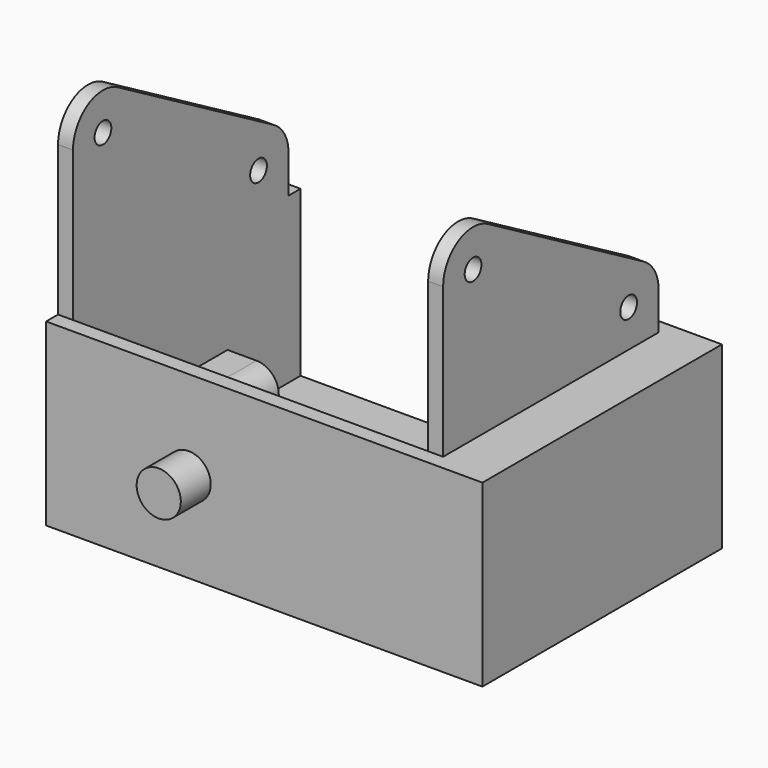
from build123d import *

# Parameters (mm, degrees)
SKETCH_W        = 54.3
SKETCH_H        = 38
PAD_DEPTH       = 2
SKETCH001_W     = 54.3
SKETCH001_H     = 2
PAD001_DEPTH    = 22
SKETCH002_R     = 2.95
PAD002_DEPTH    = 5
SKETCH003_W     = 40
SKETCH003_H     = 22
PAD003_DEPTH    = 2
SKETCH004_W     = 40
SKETCH004_H     = 22
PAD004_DEPTH    = 2
SKETCH005_W     = 6.85
SKETCH005_H     = 15
PAD005_DEPTH    = 8
SKETCH006_R     = 1.4
POCKET_DEPTH    = 15
FILLET_R        = 3
FILLET001_R     = 2
SKETCH007_W     = 6.85
SKETCH007_H     = 25.8
PAD006_DEPTH    = 20
SKETCH008_R     = 1.4
POCKET001_DEPTH = 15
PAD007_DEPTH    = 2
SKETCH010_R     = 1.4
PAD008_DEPTH    = 2
SKETCH011_R     = 1.4
PAD009_DEPTH    = 2


with BuildPart() as body:
    # Sketch → Pad (new body)
    with BuildSketch(Plane.XY):
        with Locations((27.15, 21)):
            Rectangle(SKETCH_W, SKETCH_H)
    extrude(amount=PAD_DEPTH)

    # Sketch001 → Pad001 (join)
    with BuildSketch(Plane.XY):
        with Locations((27.15, 1)):
            Rectangle(SKETCH001_W, SKETCH001_H)
    extrude(amount=PAD001_DEPTH)

    # Sketch002 → Pad002 (join)
    with BuildSketch(Plane.XZ):
        with Locations((37.25, 12)):
            Circle(SKETCH002_R)
    extrude(amount=PAD002_DEPTH)

    # Sketch003 (on Face2 of Pad002) → Pad003 (join)
    with BuildSketch(Plane(origin=(0, 0, 0), x_dir=(0, -1, 0), z_dir=(-1, 0, 0))):
        with Locations((-20, 11)):
            Rectangle(SKETCH003_W, SKETCH003_H)
    extrude(amount=PAD003_DEPTH)

    # Sketch004 (on Face3 of Pad003) → Pad004 (join)
    with BuildSketch(Plane.YZ.offset(54.3)):
        with Locations((20, 11)):
            Rectangle(SKETCH004_W, SKETCH004_H)
    extrude(amount=PAD004_DEPTH)

    # Sketch005 (on Face5 of Pad004) → Pad005 (join)
    with BuildSketch(Plane.XY.offset(2)):
        with Locations((50.875, 20.3)):
            Rectangle(SKETCH005_W, SKETCH005_H)
    extrude(amount=PAD005_DEPTH)

    # Sketch006 (on Face15 of Pad005) → Pocket (cut)
    with BuildSketch(Plane(origin=(0, 27.8, 0), x_dir=(-1, 0, 0), z_dir=(0, 1, 0))):
        with Locations((-51.3, 7)):
            Circle(SKETCH006_R)
    extrude(amount=-POCKET_DEPTH, mode=Mode.SUBTRACT)

    # Fillet
    fillet_edges = [body.edges().sort_by_distance(p)[0] for p in [
        (47.45, 20.3, 10),
    ]]
    fillet(fillet_edges, radius=FILLET_R)

    # Fillet001
    fillet001_edges = [body.edges().sort_by_distance(p)[0] for p in [
        (52.375, 12.8, 10),
    ]]
    fillet(fillet001_edges, radius=FILLET001_R)

    # Sketch007 (on Face5 of Fillet001) → Pad006 (join)
    with BuildSketch(Plane.XY.offset(2)):
        with Locations((3.425, 14.9)):
            Rectangle(SKETCH007_W, SKETCH007_H)
    extrude(amount=PAD006_DEPTH)

    # Sketch008 (on Face14 of Pad006) → Pocket001 (cut)
    with BuildSketch(Plane(origin=(0, 27.8, 0), x_dir=(-1, 0, 0), z_dir=(0, 1, 0))):
        with Locations((-3, 7)):
            Circle(SKETCH008_R)
        with Locations((-3, 17)):
            Circle(SKETCH008_R)
    extrude(amount=-POCKET001_DEPTH, mode=Mode.SUBTRACT)

    # Sketch009 (on Face21 of Pocket001) → Pad007 (join)
    with BuildSketch(Plane.XY.offset(22)):
        Polygon((54.3, 2), (54.3, 40), (56.3, 40), (56.3, 0), (-2, 0), (-2, 40), (6.85, 40), (6.85, 2), align=None)
    extrude(amount=PAD007_DEPTH)

    # Sketch010 (on Face22 of Pad007) → Pad008 (join)
    with BuildSketch(Plane.YZ.offset(6.85)):
        with BuildLine():
            Line((2, 24), (38, 24))
            Line((38, 29), (38, 24))
            ThreePointArc((38, 29), (37.326745, 31.511013), (35.487593, 33.348396))
            Line((35.487593, 33.348396), (9.497223, 48.331729))
            ThreePointArc((9.497223, 48.331729), (4.498612, 48.329325), (2, 44))
            Line((2, 44), (2, 24))
        make_face()
        with Locations((7, 44)):
            Circle(SKETCH010_R, mode=Mode.SUBTRACT)
        with Locations((32.980762, 29)):
            Circle(SKETCH010_R, mode=Mode.SUBTRACT)
    extrude(amount=-PAD008_DEPTH)

    # Sketch011 (on Face20 of Pad008) → Pad009 (join)
    with BuildSketch(Plane(origin=(54.3, 0, 0), x_dir=(0, -1, 0), z_dir=(-1, 0, 0))):
        with BuildLine():
            Line((-38, 24), (-38, 29))
            ThreePointArc((-35.487593, 33.348396), (-37.326745, 31.511013), (-38, 29))
            Line((-35.487593, 33.348396), (-9.497223, 48.331729))
            ThreePointArc((-2, 44), (-4.498612, 48.329325), (-9.497223, 48.331729))
            Line((-2, 44), (-2, 24))
            Line((-2, 24), (-38, 24))
        make_face()
        with Locations((-7, 44)):
            Circle(SKETCH011_R, mode=Mode.SUBTRACT)
        with Locations((-32.980762, 29)):
            Circle(SKETCH011_R, mode=Mode.SUBTRACT)
    extrude(amount=-PAD009_DEPTH)


with BuildPart() as part_mirroring:
    # Part__Mirroring: instance of Body
    add(body.part.mirror(Plane(origin=(0, 0, 0), x_dir=(0, -1, 0), z_dir=(1, 0, 0))))


solid = part_mirroring.part
